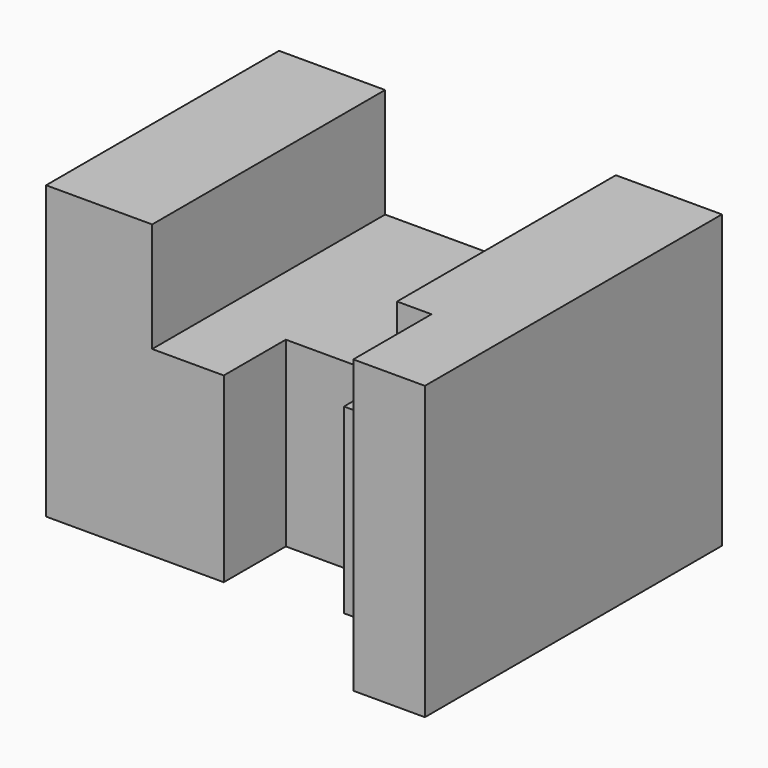
from build123d import *

# Parameters (mm, degrees)
F0_W     = 83.5
F0_H     = 55
F1_DEPTH = 70
F2_W     = 43.5
F2_H     = 20.677742
F3_DEPTH = 70.001
F5_DEPTH = 55.001


with BuildPart() as f1:
    # F0 (on Front) → F1 (new body)
    with BuildSketch(Plane.XZ):
        with Locations((41.75, 27.5)):
            Rectangle(F0_W, F0_H)
    extrude(amount=F1_DEPTH)

    # F2 (on Front) → F3 (cut, through all)
    with BuildSketch(Plane.XZ):
        with Locations((41.75, 44.661129)):
            Rectangle(F2_W, F2_H)
    extrude(amount=F3_DEPTH, mode=Mode.SUBTRACT)

    # F4 (on Top) → F5 (cut, through all)
    with BuildSketch(Plane.XY):
        Polygon((33.5, -54.897401), (0, -54.897401), (0, -70), (70, -70), (70, -51.566027), (53.5, -51.566027), (53.5, -40.276553), (33.5, -40.276553), align=None)
    extrude(amount=F5_DEPTH, mode=Mode.SUBTRACT)


solid = f1.part
